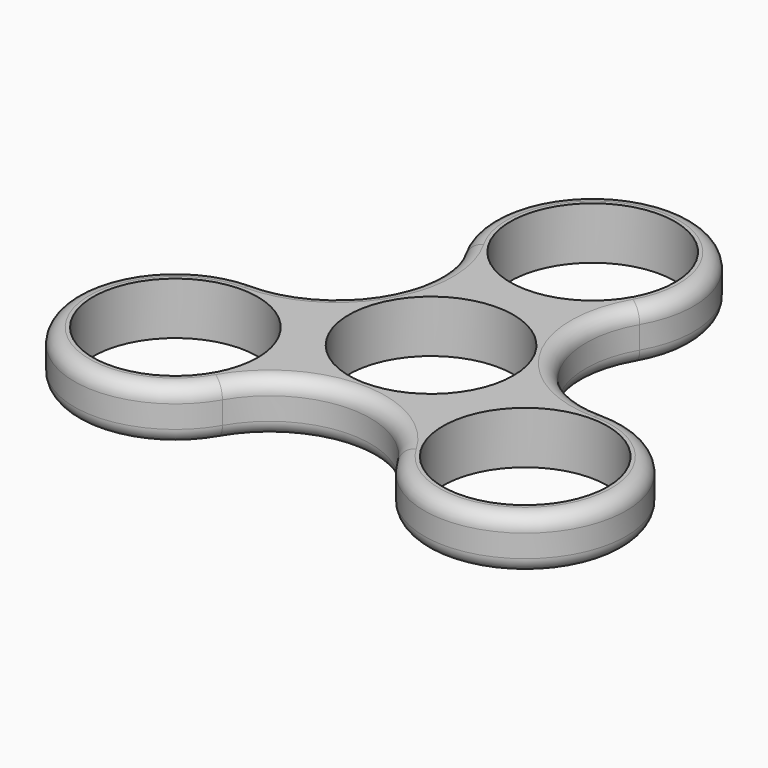
from build123d import *

# Parameters (mm, degrees)
F0_R     = 11
F1_DEPTH = 7
F2_R     = 2
F3_R     = 2


with BuildPart() as f1:
    # F0 (on Top) → F1 (new body)
    with BuildSketch(Plane.XY):
        with BuildLine():
            ThreePointArc((23.382686, 0), (11.691343, 6.75), (11.691343, 20.25))
            ThreePointArc((11.691343, 20.25), (0, 40.5), (-11.691343, 20.25))
            ThreePointArc((-11.691343, 20.25), (-11.691343, 6.75), (-23.382686, 0))
            ThreePointArc((-23.382686, 0), (-35.074029, -20.25), (-11.691343, -20.25))
            ThreePointArc((-11.691343, -20.25), (0, -13.5), (11.691343, -20.25))
            ThreePointArc((11.691343, -20.25), (35.074029, -20.25), (23.382686, 0))
        make_face()
        with Locations((-23.382686, -13.5)):
            Circle(F0_R, mode=Mode.SUBTRACT)
        with Locations((23.382686, -13.5)):
            Circle(F0_R, mode=Mode.SUBTRACT)
        Circle(F0_R, mode=Mode.SUBTRACT)
        with Locations((0, 27)):
            Circle(F0_R, mode=Mode.SUBTRACT)
    extrude(amount=F1_DEPTH)

    # F2
    f2_edges = [f1.edges().sort_by_distance(p)[0] for p in [
        (-11.691343, 6.75, 7),
        (11.691343, 6.75, 7),
        (0, -13.5, 7),
    ]]
    fillet(f2_edges, radius=F2_R)

    # F3
    f3_edges = [f1.edges().sort_by_distance(p)[0] for p in [
        (11.691343, 6.75, 0),
    ]]
    fillet(f3_edges, radius=F3_R)


solid = f1.part
